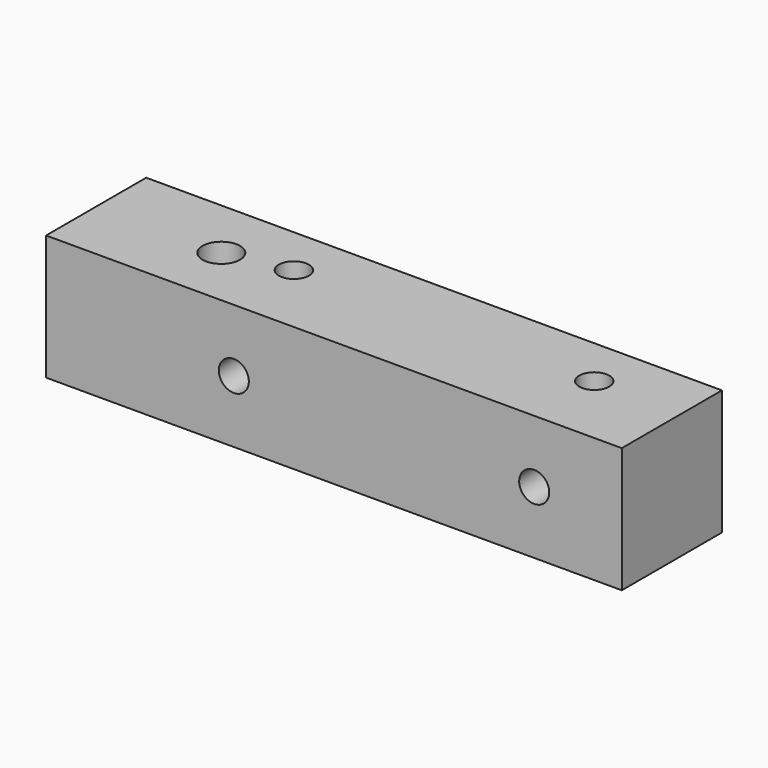
from build123d import *

# Parameters (mm, degrees)
SKETCH_W     = 46
SKETCH_H     = 10
SKETCH_R     = 1.2
SKETCH_R_2   = 1.5
PAD_DEPTH    = 10
SKETCH001_R  = 1.2
POCKET_DEPTH = 10.001


with BuildPart() as part:
    # Sketch → Pad (new body)
    with BuildSketch(Plane.XY):
        with Locations((23, 5)):
            Rectangle(SKETCH_W, SKETCH_H)
        with Locations((15, 6)):
            Circle(SKETCH_R, mode=Mode.SUBTRACT)
        with Locations((39, 6)):
            Circle(SKETCH_R, mode=Mode.SUBTRACT)
        with Locations((10, 5)):
            Circle(SKETCH_R_2, mode=Mode.SUBTRACT)
    extrude(amount=PAD_DEPTH)

    # Sketch001 → Pocket (cut, through all)
    with BuildSketch(Plane(origin=(0, 10, 0), x_dir=(-1, 0, 0), z_dir=(0, 1, 0))):
        with Locations((-15, 5)):
            Circle(SKETCH001_R)
        with Locations((-39, 5)):
            Circle(SKETCH001_R)
    extrude(amount=-POCKET_DEPTH, mode=Mode.SUBTRACT)


solid = part.part
